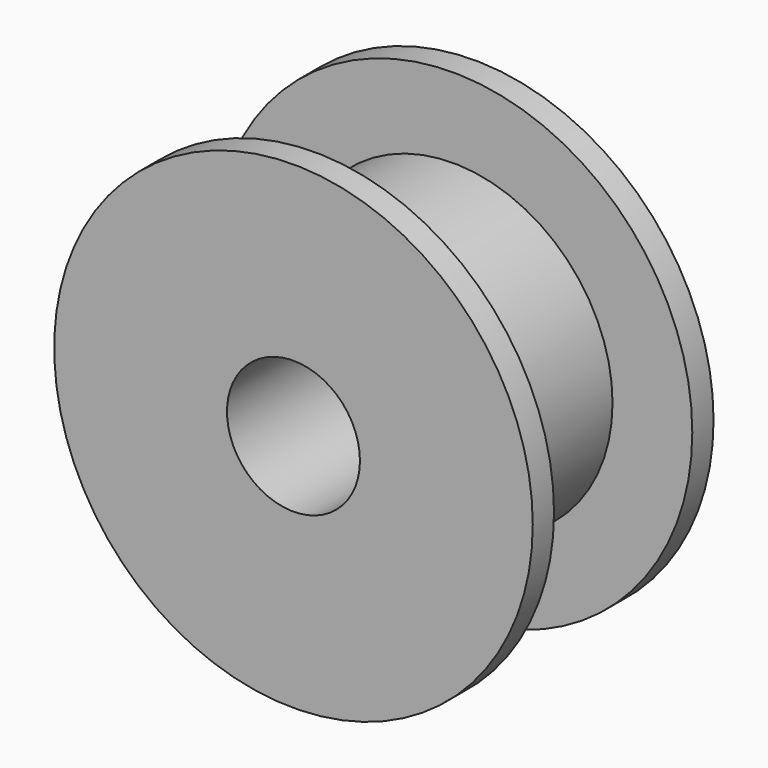
from build123d import *

# Parameters (mm, degrees)
CYLINDER277_R          = 2.5
CYLINDER277_DEPTH      = 14.5
CYLINDER275_R          = 6
CYLINDER275_DEPTH      = 6.5
CYLINDER276_R          = 9
CYLINDER276_DEPTH      = 1
CYLINDER274_R          = 9
CYLINDER274_DEPTH      = 1
CUT198_PLACEMENT_ANGLE = 90


with BuildPart() as cylinder277:
    # Cylinder277 → Cylinder277 (new body)
    with BuildSketch(Plane.XY.offset(-2.4)):
        Circle(CYLINDER277_R)
    extrude(amount=CYLINDER277_DEPTH)


with BuildPart() as cylinder275:
    # Cylinder275 → Cylinder275 (new body)
    with BuildSketch(Plane.XY.offset(1)):
        Circle(CYLINDER275_R)
    extrude(amount=CYLINDER275_DEPTH)


with BuildPart() as cylinder276:
    # Cylinder276 → Cylinder276 (new body)
    with BuildSketch(Plane.XY.offset(7.5)):
        Circle(CYLINDER276_R)
    extrude(amount=CYLINDER276_DEPTH)


with BuildPart() as cut198:
    # Cylinder274 → Cylinder274 (new body)
    with BuildSketch(Plane.XY):
        Circle(CYLINDER274_R)
    extrude(amount=CYLINDER274_DEPTH)

    # Fusion106: union Cylinder275, Cylinder276
    add(cylinder275.part)
    add(cylinder276.part)

    # Cut198: cut Cylinder277
    add(cylinder277.part, mode=Mode.SUBTRACT)


with BuildPart() as cut198_1:
    # Cut198 placement: moved
    add(cut198.part.moved(Location((316, 28.4, 32.3))).rotate(Axis((316, 28.4, 32.3), (1, 0, 0)), CUT198_PLACEMENT_ANGLE))


solid = cut198_1.part
